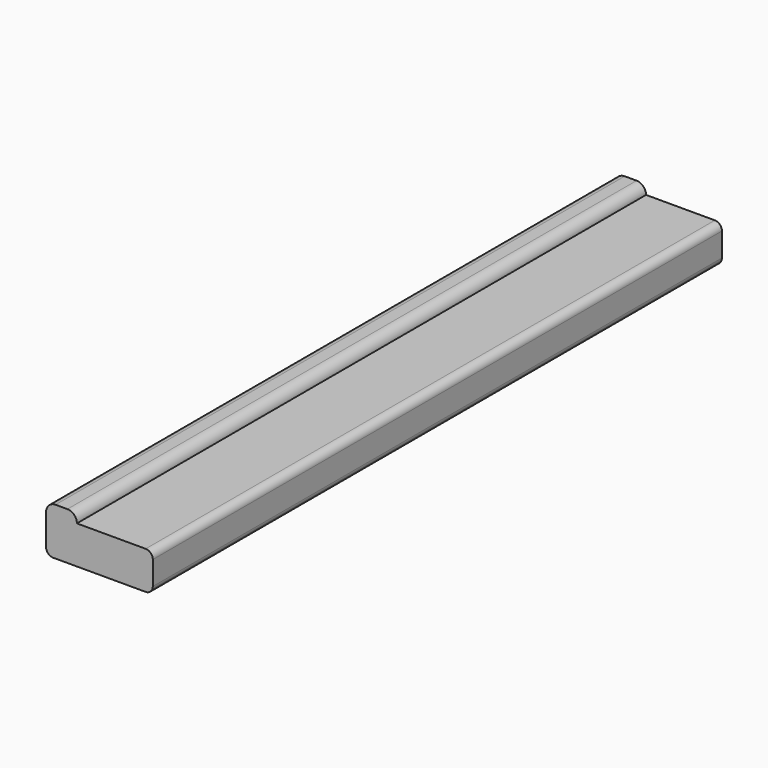
from build123d import *

# Parameters (mm, degrees)
F1_DEPTH = 300


with BuildPart() as f1:
    # F0 (on Front) → F1 (new body)
    with BuildSketch(Plane.XZ):
        with BuildLine():
            ThreePointArc((0, 3), (0.87868, 0.87868), (3, 0))
            Line((3, 0), (42, 0))
            ThreePointArc((42, 0), (44.12132, 0.87868), (45, 3))
            Line((45, 3), (45, 13))
            ThreePointArc((45, 13), (44.12132, 15.12132), (42, 16))
            Line((42, 16), (13, 16))
            ThreePointArc((13, 16), (11.828427, 18.828427), (9, 20))
            Line((9, 20), (4, 20))
            ThreePointArc((4, 20), (1.171573, 18.828427), (0, 16))
            Line((0, 16), (0, 3))
        make_face()
    extrude(amount=F1_DEPTH)


solid = f1.part
